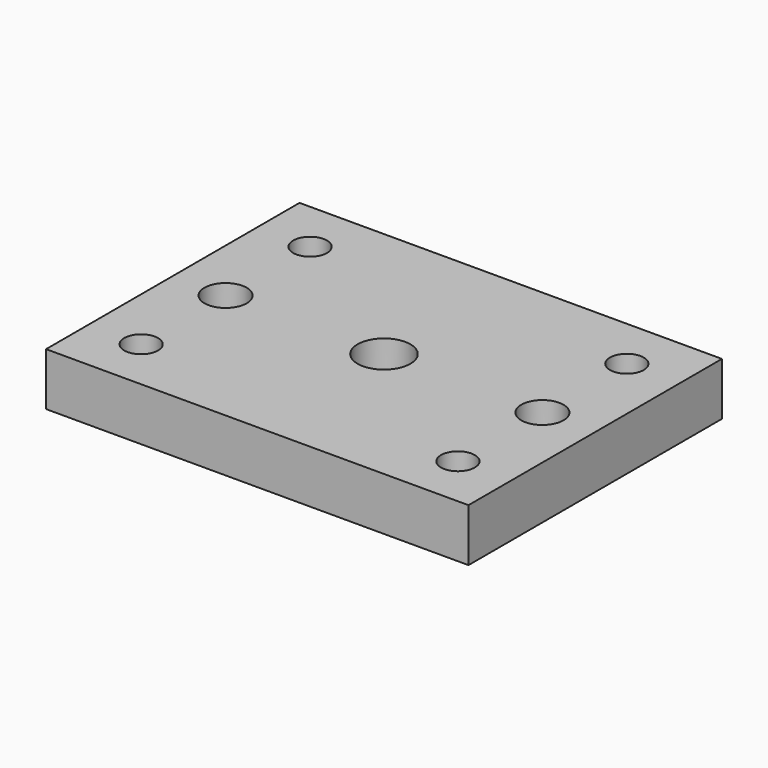
from build123d import *

# Parameters (mm, degrees)
SKETCH_W   = 80
SKETCH_H   = 60
SKETCH_R   = 5
SKETCH_R_2 = 3.2
SKETCH_R_3 = 4
PAD_DEPTH  = 10


with BuildPart() as part:
    # Sketch → Pad (new body)
    with BuildSketch(Plane.XY):
        with Locations((40, 30)):
            Rectangle(SKETCH_W, SKETCH_H)
        with Locations((40, 30)):
            Circle(SKETCH_R, mode=Mode.SUBTRACT)
        with Locations((10, 10)):
            Circle(SKETCH_R_2, mode=Mode.SUBTRACT)
        with Locations((70, 10)):
            Circle(SKETCH_R_2, mode=Mode.SUBTRACT)
        with Locations((70, 30)):
            Circle(SKETCH_R_3, mode=Mode.SUBTRACT)
        with Locations((10, 30)):
            Circle(SKETCH_R_3, mode=Mode.SUBTRACT)
        with Locations((10, 50)):
            Circle(SKETCH_R_2, mode=Mode.SUBTRACT)
        with Locations((70, 50)):
            Circle(SKETCH_R_2, mode=Mode.SUBTRACT)
    extrude(amount=PAD_DEPTH)


solid = part.part
